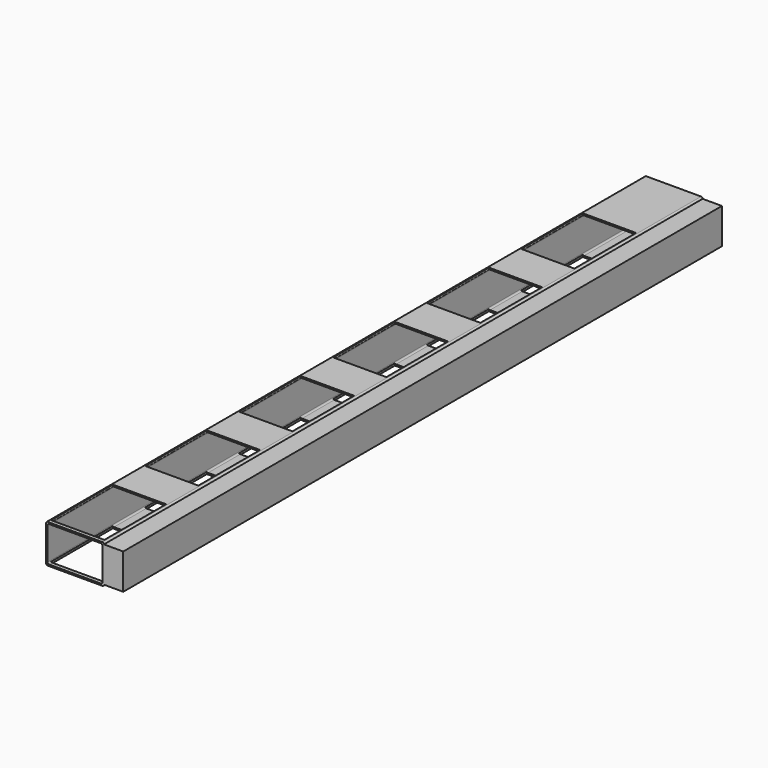
from build123d import *

# Parameters (mm, degrees)
F0_W     = 75
F0_H     = 50
F0_W_2   = 71
F0_H_2   = 46
F1_DEPTH = 970
F3_R     = 2
F4_R     = 2
F2_W     = 69
F2_H     = 100
F5_DEPTH = 60
F6_DEPTH = 25


with BuildPart() as f1:
    # F0 (on Front) → F1 (new body)
    with BuildSketch(Plane.XZ):
        Rectangle(F0_W, F0_H)
        Rectangle(F0_W_2, F0_H_2, mode=Mode.SUBTRACT)
    extrude(amount=F1_DEPTH)

    # F3
    f3_edges = [f1.edges().sort_by_distance(p)[0] for p in [
        (-37.5, -485, 25),
        (37.5, -485, 25),
        (37.5, -485, -25),
        (-37.5, -485, -25),
    ]]
    fillet(f3_edges, radius=F3_R)

    # F4
    f4_edges = [f1.edges().sort_by_distance(p)[0] for p in [
        (-35.5, -485, 23),
        (-35.5, -485, -23),
        (35.5, -485, -23),
        (35.5, -485, 23),
    ]]
    fillet(f4_edges, radius=F4_R)

    # F2 (on face) → F5 (cut)
    with BuildSketch(Plane.XY.offset(25)):
        with Locations((-0.4652442876, -915)):
            Rectangle(F2_W, F2_H)
        with Locations((-0.4652442876, -762.69)):
            Rectangle(F2_W, F2_H)
        with Locations((-0.4652442876, -610.38)):
            Rectangle(F2_W, F2_H)
        with Locations((-0.4652442876, -458.07)):
            Rectangle(F2_W, F2_H)
        with Locations((-0.4652442876, -305.76)):
            Rectangle(F2_W, F2_H)
        with Locations((-0.4652442876, -153.45)):
            Rectangle(F2_W, F2_H)
    extrude(amount=-F5_DEPTH, mode=Mode.SUBTRACT)

    # F6 (add): a face of the model
    f6_faces = [f1.faces().sort_by_distance(p)[0] for p in [
        (37.5, -485, 0),
    ]]
    extrude(f6_faces, amount=F6_DEPTH)


solid = f1.part
